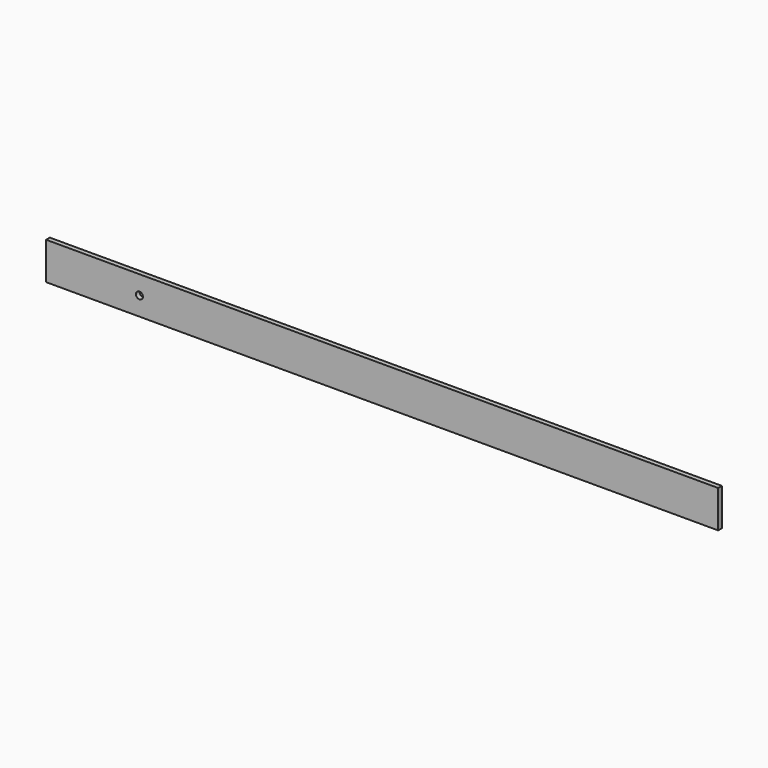
from build123d import *

# Parameters (mm, degrees)
F0_W     = 914.4
F0_H     = 6.35
F1_DEPTH = 25.4
F2_R     = 4.7625
F3_DEPTH = 6.351


with BuildPart() as f1:
    # F0 (on Top) → F1 (new body, symmetric)
    with BuildSketch(Plane.XY):
        with Locations((9.518268, 13.967921)):
            Rectangle(F0_W, F0_H)
    extrude(amount=F1_DEPTH, both=True)

    # F2 (on face) → F3 (cut, through all)
    with BuildSketch(Plane.XZ.offset(-10.792921)):
        with Locations((-320.681732, 0)):
            Circle(F2_R)
    extrude(amount=-F3_DEPTH, mode=Mode.SUBTRACT)


solid = f1.part
